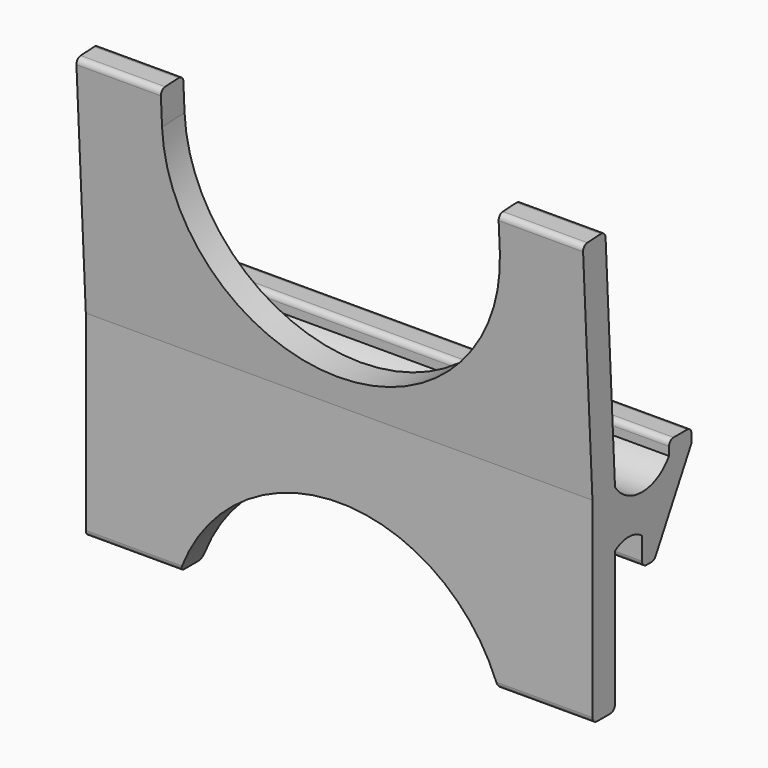
from build123d import *

# Parameters (mm, degrees)
PAD_DEPTH       = 90
POCKET_DEPTH    = 8.9110010593
POCKET001_DEPTH = 7.0820946587


with BuildPart() as part:
    # Sketch → Pad (new body)
    with BuildSketch(Plane.YZ):
        with BuildLine():
            Line((-7, -25), (-4, -25))
            ThreePointArc((-4, -25), (-3.2928932188, -24.7071067812), (-3, -24))
            Line((-3, -24), (-3, 0))
            ThreePointArc((3, 0), (0, 1), (-3, 0))
            Line((3, 0), (3, -4))
            ThreePointArc((3, -4), (3.2928932188, -4.7071067812), (4, -5))
            Line((5.124826301, -5), (4, -5))
            ThreePointArc((5.124826301, -5), (5.6328573812, -4.8613387379), (6, -4.483808843))
            Line((14.00686173, 10), (6, -4.483808843))
            Line((14.00686173, 10), (14.00686173, 11.5))
            ThreePointArc((14.00686173, 11.5), (13.7139685112, 12.2071067812), (13.00686173, 12.5))
            Line((13.00686173, 12.5), (10.00686173, 12.5))
            ThreePointArc((10.00686173, 12.5), (9.2997549488, 12.2071067812), (9.00686173, 11.5))
            Line((9.00686173, 11.5), (9.00686173, 10))
            ThreePointArc((-2.99313827, 10), (3.00686173, 6.7888974491), (9.00686173, 10))
            Line((-2.99313827, 10), (-5.0865765197, 49.9451813902))
            ThreePointArc((-5.0865765197, 49.9451813902), (-5.4160754481, 50.6359902594), (-6.1375420107, 50.8914749687))
            Line((-6.1375420107, 50.8914749687), (-9.133430615, 50.7344671))
            ThreePointArc((-9.133430615, 50.7344671), (-9.8242394842, 50.4049681716), (-10.0797241935, 49.683501609))
            Line((-10.0797241935, 49.683501609), (-8, 10))
            Line((-8, 10), (-8, -24))
            ThreePointArc((-8, -24), (-7.7071067812, -24.7071067812), (-7, -25))
        make_face()
    extrude(amount=PAD_DEPTH)

    # Sketch002 (on Face1 of Pad) → Pocket (cut, through all)
    with BuildSketch(Plane(origin=(0, -2.4622975914, -0.1290435487), x_dir=(0, -0.0523359562, 0.9986295348), z_dir=(0, 0.9986295348, 0.0523359562))):
        with BuildLine():
            Line((51.1429441011, 75), (45.1429441011, 75))
            ThreePointArc((45.1429441011, 75), (15.1429441011, 45), (45.1429441011, 15))
            Line((45.1429441011, 15), (51.1429441011, 15))
            Line((51.1429441011, 15), (51.1429441011, 75))
        make_face()
    extrude(amount=-POCKET_DEPTH, mode=Mode.SUBTRACT)

    # Sketch003 (on Face17 of Pocket) → Pocket001 (cut, through all)
    with BuildSketch(Plane.ZX.offset(-3)):
        with BuildLine():
            Line((-75, 75), (-35, 75))
            ThreePointArc((-35, 15), (-5, 45), (-35, 75))
            Line((-35, 15), (-75, 15))
            Line((-75, 15), (-75, 75))
        make_face()
    extrude(amount=-POCKET001_DEPTH, mode=Mode.SUBTRACT)


solid = part.part
